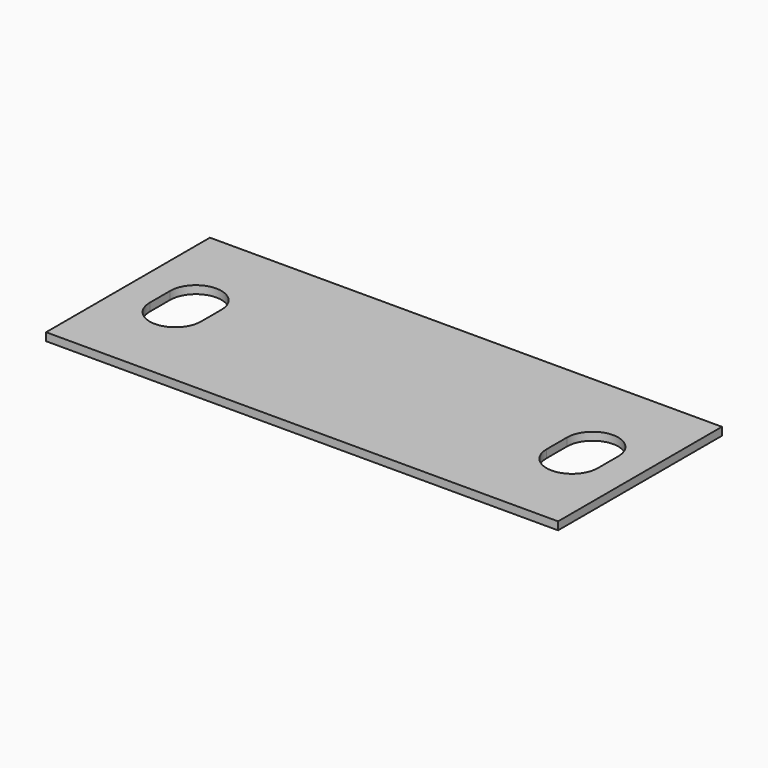
from build123d import *

# Parameters (mm, degrees)
F0_W     = 127
F0_H     = 1.9685
F1_DEPTH = 50.8
F3_DEPTH = 25.4


with BuildPart() as f1:
    # F0 (on Front) → F1 (new body)
    with BuildSketch(Plane.XZ):
        Rectangle(F0_W, F0_H)
    extrude(amount=F1_DEPTH)

    # F2 (on face) → F3 (cut)
    with BuildSketch(Plane.XY.offset(0.98425)):
        with BuildLine():
            ThreePointArc((-42.8625, -22.225), (-49.2125, -15.875), (-55.5625, -22.225))
            Line((-55.5625, -22.225), (-55.5625, -28.575))
            ThreePointArc((-55.5625, -28.575), (-49.2125, -34.925), (-42.8625, -28.575))
            Line((-42.8625, -28.575), (-42.8625, -22.225))
        make_face()
        with BuildLine():
            Line((55.5625, -28.575), (55.5625, -22.225))
            ThreePointArc((55.5625, -22.225), (49.2125, -15.875), (42.8625, -22.225))
            Line((42.8625, -22.225), (42.8625, -28.575))
            ThreePointArc((42.8625, -28.575), (49.2125, -34.925), (55.5625, -28.575))
        make_face()
    extrude(amount=-F3_DEPTH, mode=Mode.SUBTRACT)


solid = f1.part
